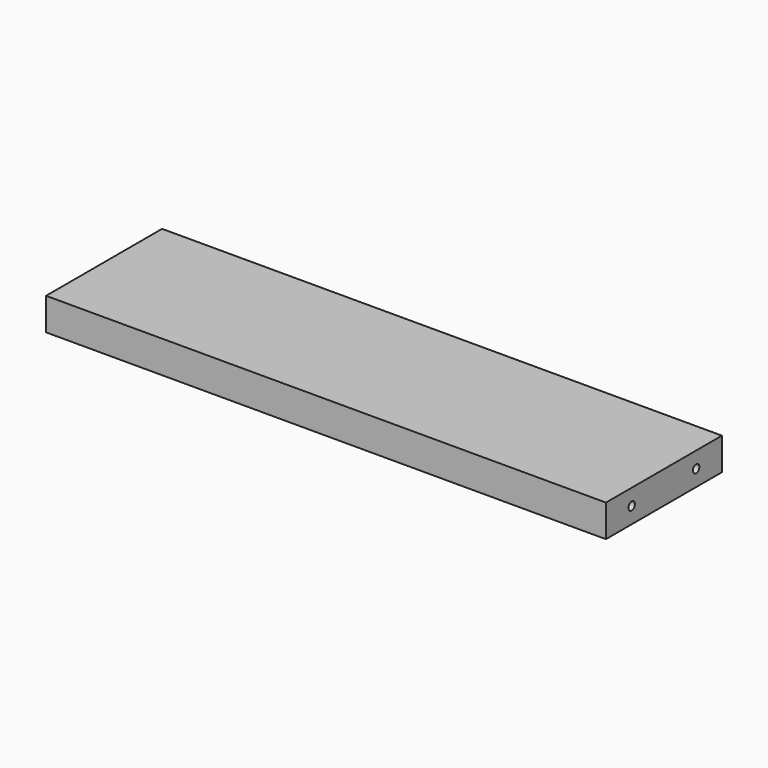
from build123d import *

# Parameters (mm, degrees)
F0_W     = 441.325
F0_H     = 25.4
F1_DEPTH = 114.3
F3_R     = 3.175
F4_DEPTH = 6.35
F2_R     = 3.175
F5_DEPTH = 6.35


with BuildPart() as f1:
    # F0 (on Front) → F1 (new body)
    with BuildSketch(Plane.XZ):
        with Locations((148.989234, 12.7)):
            Rectangle(F0_W, F0_H)
    extrude(amount=F1_DEPTH)

    # F3 (on face) → F4 (cut)
    with BuildSketch(Plane.YZ.offset(369.651734)):
        with Locations((-88.9, 12.7)):
            Circle(F3_R)
        with Locations((-25.4, 12.7)):
            Circle(F3_R)
    extrude(amount=-F4_DEPTH, mode=Mode.SUBTRACT)

    # F2 (on face) → F5 (cut)
    with BuildSketch(Plane(origin=(-71.673266, 0, 0), x_dir=(0, -1, 0), z_dir=(-1, 0, 0))):
        with Locations((25.4, 12.7)):
            Circle(F2_R)
        with Locations((88.9, 12.7)):
            Circle(F2_R)
    extrude(amount=-F5_DEPTH, mode=Mode.SUBTRACT)


solid = f1.part
